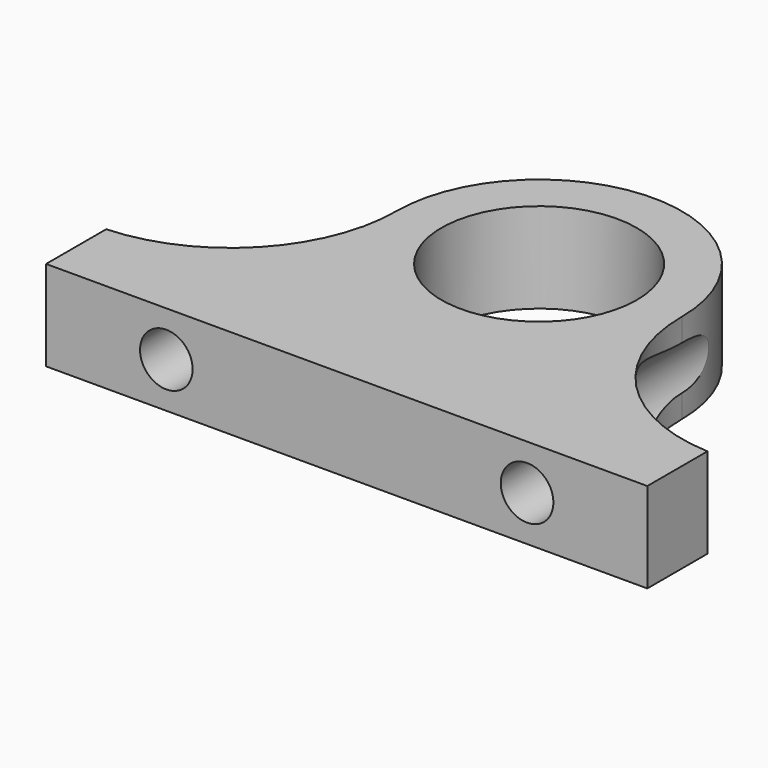
from build123d import *

# Parameters (mm, degrees)
SKETCH_R        = 6.5
PAD_DEPTH       = 6
SKETCH001_R     = 1.75
POCKET_DEPTH    = 25.501
SKETCH002_R     = 2.9
POCKET001_DEPTH = 19.501


with BuildPart() as part:
    # Sketch → Pad (new body)
    with BuildSketch(Plane.XY):
        with BuildLine():
            ThreePointArc((9.5, 16), (0, 25.5), (-9.5, 16))
            ThreePointArc((-20, 5), (-12.546382, 8.396547), (-9.5, 16))
            Line((-20, 0), (-20, 5))
            Line((-20, 0), (20, 0))
            Line((20, 0), (20, 5))
            ThreePointArc((9.5, 16), (12.546382, 8.396547), (20, 5))
        make_face()
        with Locations((0, 16)):
            Circle(SKETCH_R, mode=Mode.SUBTRACT)
    extrude(amount=PAD_DEPTH)

    # Sketch001 (on Face4 of Pad) → Pocket (cut, through all)
    with BuildSketch(Plane.XZ):
        with Locations((-12, 3)):
            Circle(SKETCH001_R)
        with Locations((12, 3)):
            Circle(SKETCH001_R)
    extrude(amount=-POCKET_DEPTH, mode=Mode.SUBTRACT)

    # Sketch002 (on Face4 of Pad) → Pocket001 (cut, through all)
    with BuildSketch(Plane.XZ.offset(-6)):
        with Locations((-12, 3)):
            Circle(SKETCH002_R)
        with Locations((12, 3)):
            Circle(SKETCH002_R)
    extrude(amount=-POCKET001_DEPTH, mode=Mode.SUBTRACT)


solid = part.part
